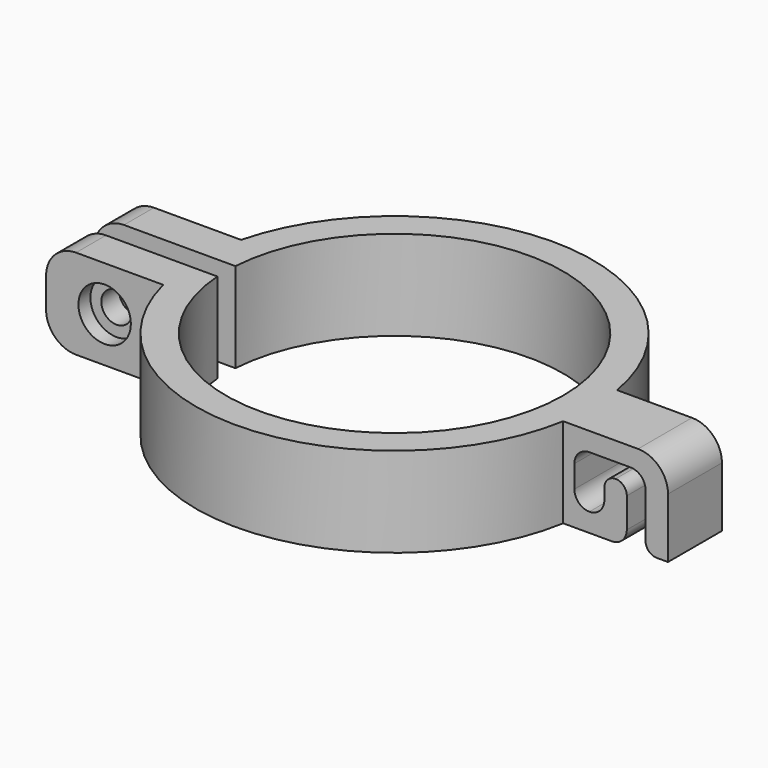
from build123d import *

# Parameters (mm, degrees)
F1_DEPTH = 6
F5_DEPTH = 9
F2_R     = 2.05
F6_DEPTH = 13
F2_R_2   = 3.5
F7_DEPTH = 2
F8_DEPTH = 2
F9_R     = 4


with BuildPart() as f1:
    # F0 (on Top) → F1 (new body, symmetric)
    with BuildSketch(Plane.XY):
        with BuildLine():
            ThreePointArc((-22.449944, 1.5), (22.5, 0), (-22.449944, -1.5))
            Line((-22.449944, -1.5), (-41.327112, -1.5))
            Line((-41.327112, -1.5), (-41.327112, -6.5))
            Line((-41.327112, -6.5), (-25.690465, -6.5))
            ThreePointArc((-25.690465, -6.5), (1.022294, -26.480274), (26.11513, -4.5))
            Line((26.11513, -4.5), (40.11513, -4.5))
            Line((40.11513, -4.5), (40.11513, 4.5))
            Line((40.11513, 4.5), (26.11513, 4.5))
            ThreePointArc((26.11513, 4.5), (1.022294, 26.480274), (-25.690465, 6.5))
            Line((-25.690465, 6.5), (-41.327112, 6.5))
            Line((-41.327112, 6.5), (-41.327112, 1.5))
            Line((-41.327112, 1.5), (-22.449944, 1.5))
        make_face()
    extrude(amount=F1_DEPTH, both=True)

    # F4 (on face) → F5 (cut, through all)
    with BuildSketch(Plane.XZ.offset(4.5)):
        with BuildLine():
            ThreePointArc((38.61513, -6), (37.55447, -5.56066), (37.11513, -4.5))
            Line((37.11513, -4.5), (37.11513, 1.5))
            ThreePointArc((37.11513, 1.5), (36.529343, 2.914214), (35.11513, 3.5))
            Line((35.11513, 3.5), (29.61513, 3.5))
            ThreePointArc((29.61513, 3.5), (28.200916, 2.914214), (27.61513, 1.5))
            Line((27.61513, 1.5), (27.61513, -1.5))
            ThreePointArc((27.61513, -1.5), (28.200916, -2.914214), (29.61513, -3.5))
            ThreePointArc((29.61513, -3.5), (31.029343, -2.914214), (31.61513, -1.5))
            Line((31.61513, -1.5), (31.61513, 0))
            ThreePointArc((31.61513, 0), (32.05447, 1.06066), (33.11513, 1.5))
            ThreePointArc((33.11513, 1.5), (34.17579, 1.06066), (34.61513, 0))
            Line((34.61513, 0), (34.61513, -4))
            ThreePointArc((34.61513, -4), (34.029343, -5.414214), (32.61513, -6))
            Line((32.61513, -6), (34.61513, -6))
            Line((34.61513, -6), (37.11513, -6))
            Line((37.11513, -6), (38.61513, -6))
        make_face()
    extrude(amount=-F5_DEPTH, mode=Mode.SUBTRACT)

    # F2 (on face) → F6 (cut, through all)
    with BuildSketch(Plane.XZ.offset(6.5)):
        with Locations((-33.508788, 0)):
            Circle(F2_R)
    extrude(amount=-F6_DEPTH, mode=Mode.SUBTRACT)

    # F2 (on face) → F7 (cut)
    with BuildSketch(Plane.XZ.offset(6.5)):
        with Locations((-33.508788, 0)):
            Circle(F2_R_2)
        with Locations((-33.508788, 0)):
            Circle(F2_R, mode=Mode.SUBTRACT)
    extrude(amount=-F7_DEPTH, mode=Mode.SUBTRACT)

    # F3 (on face) → F8 (cut)
    with BuildSketch(Plane(origin=(0, 6.5, 0), x_dir=(-1, 0, 0), z_dir=(0, 1, 0))):
        Polygon((31.258788, -3.897114), (35.758788, -3.897114), (38.008788, 0), (35.758788, 3.897114), (31.258788, 3.897114), (29.008788, 0), align=None)
    extrude(amount=-F8_DEPTH, mode=Mode.SUBTRACT)

    # F9
    f9_edges = [f1.edges().sort_by_distance(p)[0] for p in [
        (-41.327112, -4, 6),
        (-41.327112, 4, 6),
        (-41.327112, 4, -6),
        (-41.327112, -4, -6),
        (40.11513, 0, 6),
    ]]
    fillet(f9_edges, radius=F9_R)


solid = f1.part
